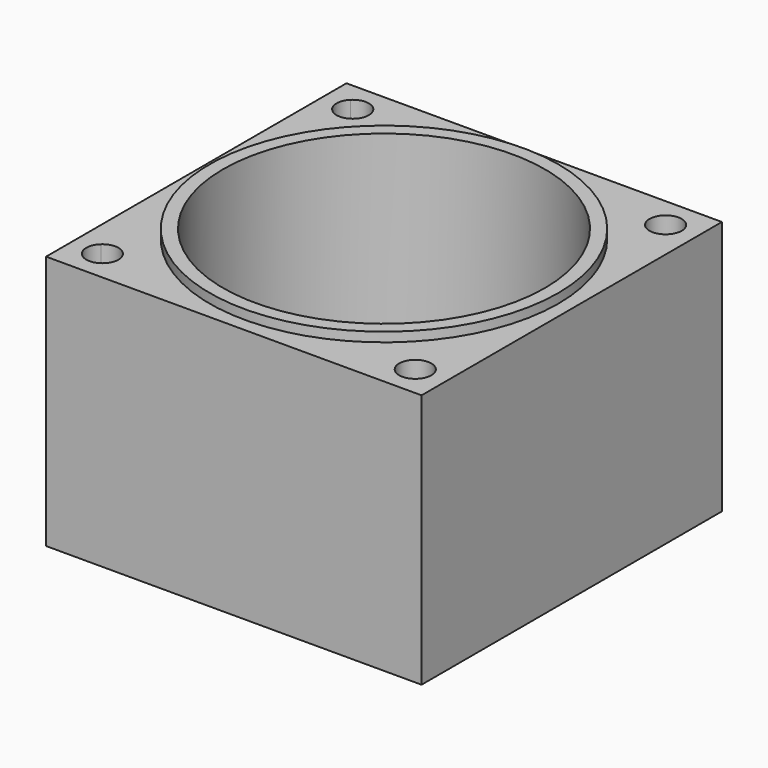
from build123d import *

# Parameters (mm, degrees)
F0_W     = 140
F0_H     = 140
F0_R     = 60
F1_DEPTH = 95
F2_R     = 65
F2_R_2   = 60
F3_DEPTH = 3.5
F4_R     = 65
F4_R_2   = 50
F5_DEPTH = 3.5
F7_DEPTH = 95.001


with BuildPart() as f1:
    # F0 (on Top) → F1 (new body)
    with BuildSketch(Plane.XY):
        Rectangle(F0_W, F0_H)
        Circle(F0_R, mode=Mode.SUBTRACT)
    extrude(amount=F1_DEPTH)

    # F2 (on face) → F3 (join)
    with BuildSketch(Plane.XY.offset(95)):
        Circle(F2_R)
        Circle(F2_R_2, mode=Mode.SUBTRACT)
    extrude(amount=F3_DEPTH)

    # F4 (on face) → F5 (cut)
    with BuildSketch(Plane(origin=(0, 0, 0), x_dir=(1, 0, 0), z_dir=(0, 0, -1))):
        Circle(F4_R)
        Circle(F4_R_2, mode=Mode.SUBTRACT)
    extrude(amount=-F5_DEPTH, mode=Mode.SUBTRACT)

    # F6 (on face) → F7 (cut, through all)
    with BuildSketch(Plane.XY.offset(95)):
        with BuildLine():
            ThreePointArc((-58.3363094479, 58.3363094479), (-56.1764068849, 60.419047572), (-53.9421968972, 62.4218663122))
            ThreePointArc((-53.9421968972, 62.4218663122), (-58.2272004968, 64.3353173023), (-62.578950135, 62.578950135))
            Line((-62.578950135, 62.578950135), (-58.3363094479, 58.3363094479))
        make_face()
        with BuildLine():
            ThreePointArc((-52.3363094479, 58.3363094479), (-52.752194688, 60.5312268377), (-53.9421968972, 62.4218663122))
            ThreePointArc((-53.9421968972, 62.4218663122), (-56.1764068849, 60.419047572), (-58.3363094479, 58.3363094479))
            Line((-58.3363094479, 58.3363094479), (-54.0936687608, 54.0936687608))
            ThreePointArc((-54.0936687608, 54.0936687608), (-52.7930322528, 56.0402088537), (-52.3363094479, 58.3363094479))
        make_face()
        with BuildLine():
            Line((-54.0936687608, 54.0936687608), (-58.3363094479, 58.3363094479))
            ThreePointArc((-58.3363094479, 58.3363094479), (-60.419047572, 56.1764068849), (-62.4218663122, 53.9421968972))
            ThreePointArc((-62.4218663122, 53.9421968972), (-58.2272004968, 52.3373015935), (-54.0936687608, 54.0936687608))
        make_face()
        with BuildLine():
            ThreePointArc((-62.4218663122, 53.9421968972), (-60.419047572, 56.1764068849), (-58.3363094479, 58.3363094479))
            Line((-58.3363094479, 58.3363094479), (-62.578950135, 62.578950135))
            ThreePointArc((-62.578950135, 62.578950135), (-64.3353173023, 58.2272004968), (-62.4218663122, 53.9421968972))
        make_face()
        with BuildLine():
            ThreePointArc((53.9421968972, 62.4218663122), (58.3363094479, 58.3363094479), (62.4218663122, 53.9421968972))
            ThreePointArc((62.4218663122, 53.9421968972), (63.836915832, 55.9397850047), (64.3363094479, 58.3363094479))
            ThreePointArc((64.3363094479, 58.3363094479), (60.5312268377, 63.9204242078), (53.9421968972, 62.4218663122))
        make_face()
        with BuildLine():
            ThreePointArc((53.9421968972, 62.4218663122), (54.0936687608, 54.0936687608), (62.4218663122, 53.9421968972))
            ThreePointArc((62.4218663122, 53.9421968972), (58.3363094479, 58.3363094479), (53.9421968972, 62.4218663122))
        make_face()
        with BuildLine():
            ThreePointArc((64.3363094479, -58.3363094479), (63.836915832, -55.9397850047), (62.4218663122, -53.9421968972))
            ThreePointArc((62.4218663122, -53.9421968972), (58.3363094479, -58.3363094479), (53.9421968972, -62.4218663122))
            ThreePointArc((53.9421968972, -62.4218663122), (60.5312268377, -63.9204242078), (64.3363094479, -58.3363094479))
        make_face()
        with BuildLine():
            ThreePointArc((53.9421968972, -62.4218663122), (58.3363094479, -58.3363094479), (62.4218663122, -53.9421968972))
            ThreePointArc((62.4218663122, -53.9421968972), (54.0936687608, -54.0936687608), (53.9421968972, -62.4218663122))
        make_face()
        with BuildLine():
            ThreePointArc((-62.4218663122, -53.9421968972), (-62.578950135, -62.578950135), (-53.9421968972, -62.4218663122))
            ThreePointArc((-53.9421968972, -62.4218663122), (-58.3363094479, -58.3363094479), (-62.4218663122, -53.9421968972))
        make_face()
        with BuildLine():
            ThreePointArc((-62.4218663122, -53.9421968972), (-58.3363094479, -58.3363094479), (-53.9421968972, -62.4218663122))
            ThreePointArc((-53.9421968972, -62.4218663122), (-52.752194688, -60.5312268377), (-52.3363094479, -58.3363094479))
            ThreePointArc((-52.3363094479, -58.3363094479), (-55.9397850047, -52.8357030638), (-62.4218663122, -53.9421968972))
        make_face()
    extrude(amount=-F7_DEPTH, mode=Mode.SUBTRACT)


solid = f1.part
